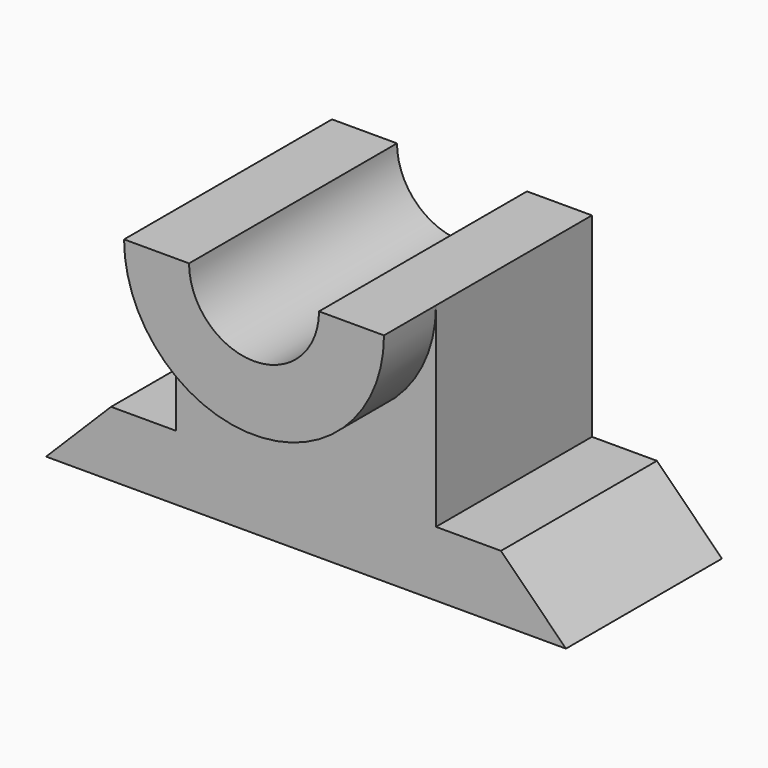
from build123d import *

# Parameters (mm, degrees)
F1_DEPTH = 30
F3_DEPTH = 10
F5_DEPTH = 40.001


with BuildPart() as f1:
    # F0 (on Front) → F1 (new body)
    with BuildSketch(Plane.XZ):
        Polygon((10, 10), (0, 0), (80, 0), (70, 10), (60, 10), (60, 40), (20, 40), (20, 10), align=None)
    extrude(amount=F1_DEPTH)

    # F2 (on face) → F3 (join)
    with BuildSketch(Plane.XZ.offset(30)):
        with BuildLine():
            ThreePointArc((20, 40), (40, 20), (60, 40))
            Line((60, 40), (20, 40))
        make_face()
    extrude(amount=F3_DEPTH)

    # F4 (on face) → F5 (cut, through all)
    with BuildSketch(Plane.XZ.offset(40)):
        with BuildLine():
            ThreePointArc((30, 40), (40, 30), (50, 40))
            Line((50, 40), (30, 40))
        make_face()
    extrude(amount=-F5_DEPTH, mode=Mode.SUBTRACT)


solid = f1.part
